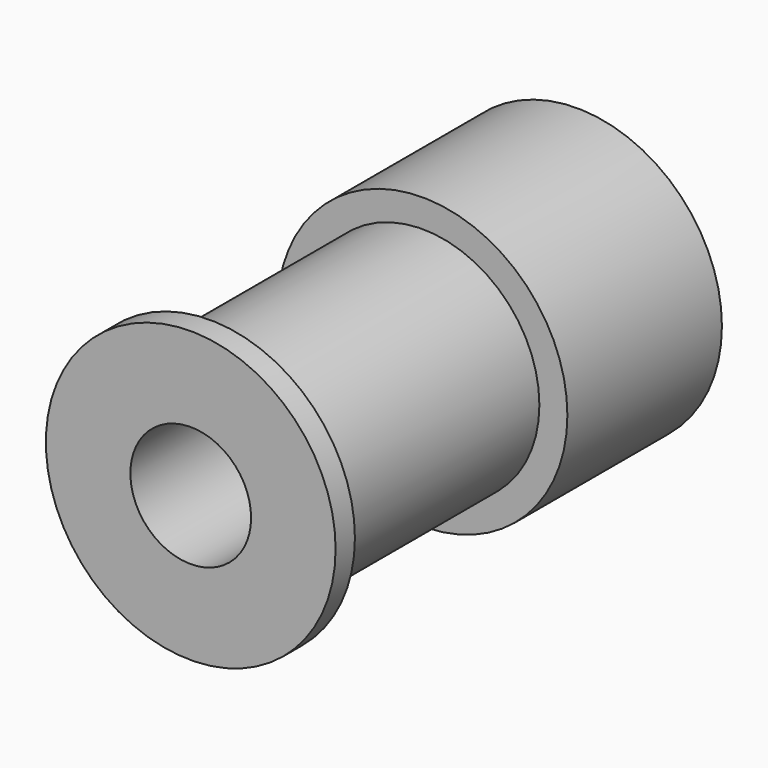
from build123d import *

# Parameters (mm, degrees)
F0_R     = 6
F0_R_2   = 2.5
F1_DEPTH = 10
F3_R     = 7
F3_R_2   = 4.84
F4_DEPTH = 11


with BuildPart() as f1:
    # F0 (on Front) → F1 (new body, symmetric)
    with BuildSketch(Plane.XZ):
        Circle(F0_R)
        Circle(F0_R_2, mode=Mode.SUBTRACT)
    extrude(amount=F1_DEPTH, both=True)

    # F3 (on offset) → F4 (cut)
    with BuildSketch(Plane.XZ.offset(9)):
        Circle(F3_R)
        Circle(F3_R_2, mode=Mode.SUBTRACT)
    extrude(amount=-F4_DEPTH, mode=Mode.SUBTRACT)


solid = f1.part
